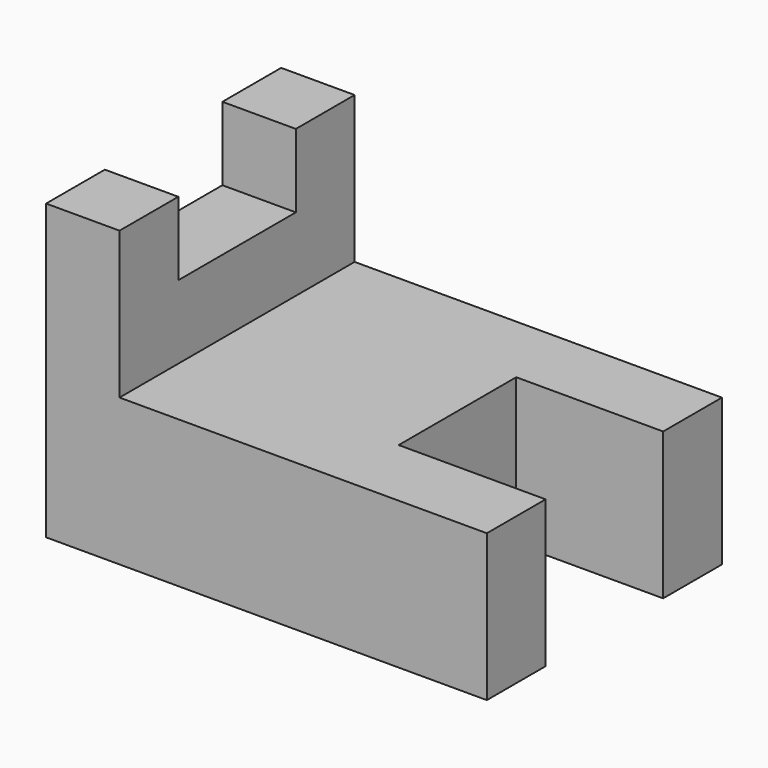
from build123d import *

# Parameters (mm, degrees)
F1_DEPTH = 12.7
F3_DEPTH = 6.35


with BuildPart() as f1:
    # F0 (on Top) → F1 (new body)
    with BuildSketch(Plane.XY):
        Polygon((-38.1, 0), (0, 0), (0, 6.35), (-12.7, 6.35), (-12.7, 19.05), (0, 19.05), (0, 25.4), (-38.1, 25.4), align=None)
    extrude(amount=F1_DEPTH)

    # F2 (on face) → F3 (join)
    with BuildSketch(Plane(origin=(-38.1, 0, 0), x_dir=(0, -1, 0), z_dir=(-1, 0, 0))):
        Polygon((-25.4, 25.4), (-25.4, 12.7), (0, 12.7), (0, 25.4), (-6.35, 25.4), (-6.35, 19.05), (-19.05, 19.05), (-19.05, 25.4), align=None)
    extrude(amount=-F3_DEPTH)


solid = f1.part
